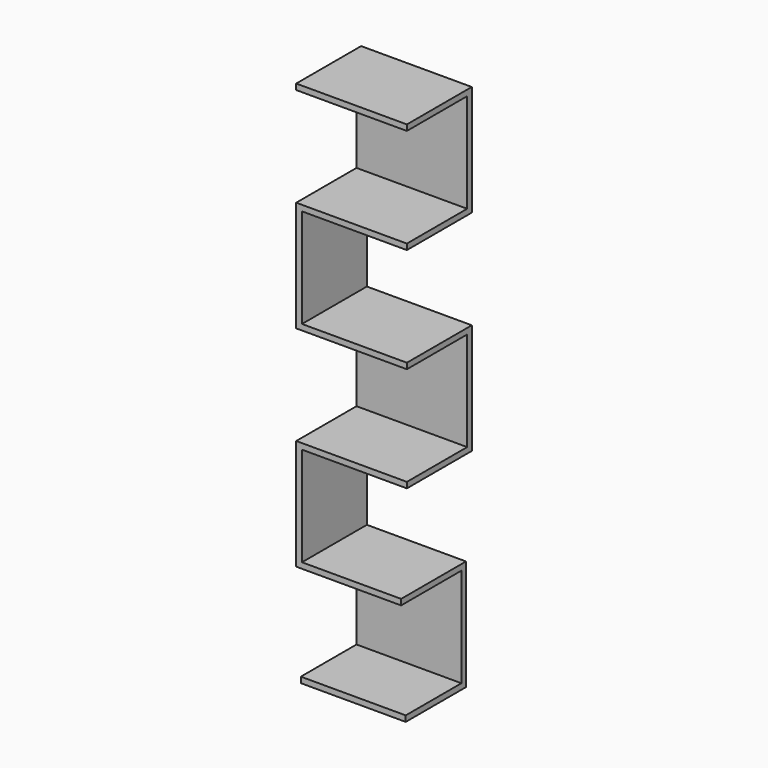
from build123d import *

# Parameters (mm, degrees)
F0_W      = 355
F0_H      = 255
F1_DEPTH  = 19.5
F2_W      = 355
F2_H      = 19.5
F3_DEPTH  = 355
F4_W      = 355
F4_H      = 19.5
F5_DEPTH  = 255
F6_W      = 19.5
F6_H      = 274.5
F7_DEPTH  = 355
F8_W      = 274.5
F8_H      = 19.5
F9_DEPTH  = 355
F10_W     = 374.5
F10_H     = 19.5
F11_DEPTH = 355
F12_W     = 374.5
F12_H     = 19.5
F13_DEPTH = 255
F14_W     = 19.5
F14_H     = 274.5
F15_DEPTH = 355
F16_W     = 274.5
F16_H     = 19.5
F17_DEPTH = 355
F18_W     = 374.5
F18_H     = 19.5
F19_DEPTH = 355
F20_W     = 374.5
F20_H     = 19.5
F21_DEPTH = 255


with BuildPart() as f1:
    # F0 (on Top) → F1 (new body)
    with BuildSketch(Plane.XY):
        Rectangle(F0_W, F0_H)
    extrude(amount=F1_DEPTH)

    # F2 (on face) → F3 (join)
    with BuildSketch(Plane.XY.offset(19.5)):
        with Locations((0, 117.75)):
            Rectangle(F2_W, F2_H)
    extrude(amount=F3_DEPTH)

    # F4 (on face) → F5 (join)
    with BuildSketch(Plane.XZ.offset(-108)):
        with Locations((0, 364.75)):
            Rectangle(F4_W, F4_H)
    extrude(amount=F5_DEPTH)

    # F6 (on face) → F7 (join)
    with BuildSketch(Plane.XY.offset(374.5)):
        with Locations((-167.75, -9.75)):
            Rectangle(F6_W, F6_H)
    extrude(amount=F7_DEPTH)

    # F8 (on face) → F9 (join)
    with BuildSketch(Plane.YZ.offset(-158)):
        with Locations((-9.75, 719.75)):
            Rectangle(F8_W, F8_H)
    extrude(amount=F9_DEPTH)

    # F10 (on face) → F11 (join)
    with BuildSketch(Plane.XY.offset(729.5)):
        with Locations((9.75, 117.75)):
            Rectangle(F10_W, F10_H)
    extrude(amount=F11_DEPTH)

    # F12 (on face) → F13 (join)
    with BuildSketch(Plane.XZ.offset(-108)):
        with Locations((9.75, 1074.75)):
            Rectangle(F12_W, F12_H)
    extrude(amount=F13_DEPTH)

    # F14 (on face) → F15 (join)
    with BuildSketch(Plane.XY.offset(1084.5)):
        with Locations((-167.75, -9.75)):
            Rectangle(F14_W, F14_H)
    extrude(amount=F15_DEPTH)

    # F16 (on face) → F17 (join)
    with BuildSketch(Plane.YZ.offset(-158)):
        with Locations((-9.75, 1429.75)):
            Rectangle(F16_W, F16_H)
    extrude(amount=F17_DEPTH)

    # F18 (on face) → F19 (join)
    with BuildSketch(Plane.XY.offset(1439.5)):
        with Locations((9.75, 117.75)):
            Rectangle(F18_W, F18_H)
    extrude(amount=F19_DEPTH)

    # F20 (on face) → F21 (join)
    with BuildSketch(Plane.XZ.offset(-108)):
        with Locations((9.75, 1784.75)):
            Rectangle(F20_W, F20_H)
    extrude(amount=F21_DEPTH)


solid = f1.part
